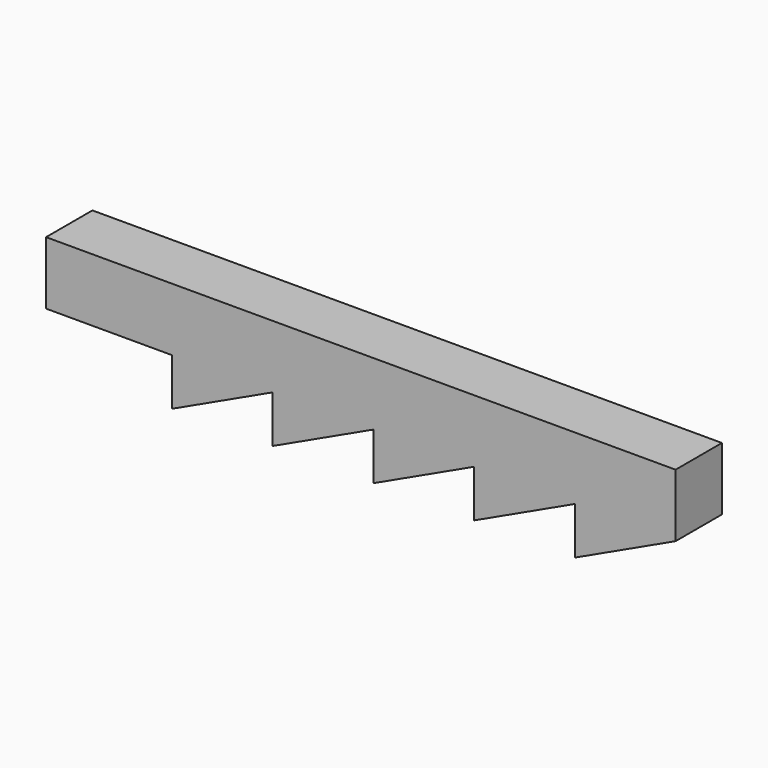
from build123d import *

# Parameters (mm, degrees)
F1_DEPTH = 5.842


with BuildPart() as f1:
    # F0 (on Front) → F1 (new body)
    with BuildSketch(Plane.XZ):
        Polygon((0, 6.35), (0, 0), (12.7, 0), (22.86, 0), (33.02, 0), (43.18, 0), (53.34, 0), (63.5, 0), (63.5, 6.35), align=None)
        Polygon((22.86, 0), (12.7, 0), (12.7, -4.7625), align=None)
        Polygon((33.02, 0), (22.86, 0), (22.86, -4.7625), align=None)
        Polygon((43.18, 0), (33.02, 0), (33.02, -4.7625), align=None)
        Polygon((53.34, -4.7625), (63.5, 0), (53.34, 0), align=None)
        Polygon((53.34, 0), (43.18, 0), (43.18, -4.7625), align=None)
    extrude(amount=F1_DEPTH)


solid = f1.part
